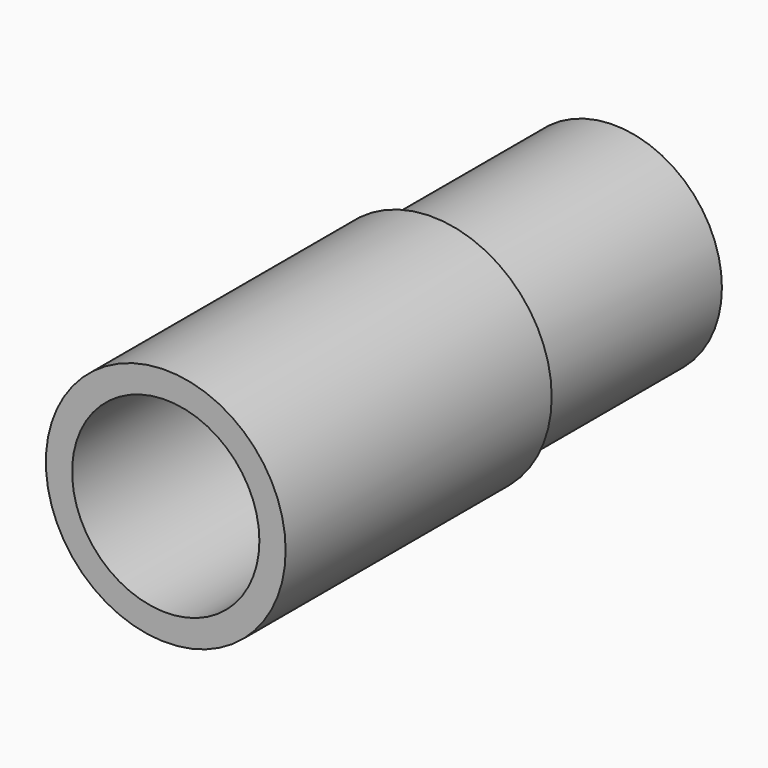
from build123d import *

# Parameters (mm, degrees)
F2_R     = 6.85
F2_R_2   = 5.35
F3_DEPTH = 19
F4_R     = 6.175
F4_R_2   = 5.35
F5_DEPTH = 13


with BuildPart() as f3:
    # F2 (on Front) → F3 (new body)
    with BuildSketch(Plane.XZ):
        Circle(F2_R)
        Circle(F2_R_2, mode=Mode.SUBTRACT)
    extrude(amount=F3_DEPTH)


with BuildPart() as f5:
    # F4 (on Front) → F5 (new body)
    with BuildSketch(Plane.XZ):
        Circle(F4_R)
        Circle(F4_R_2, mode=Mode.SUBTRACT)
    extrude(amount=-F5_DEPTH)


solid = Compound([f3.part, f5.part])
